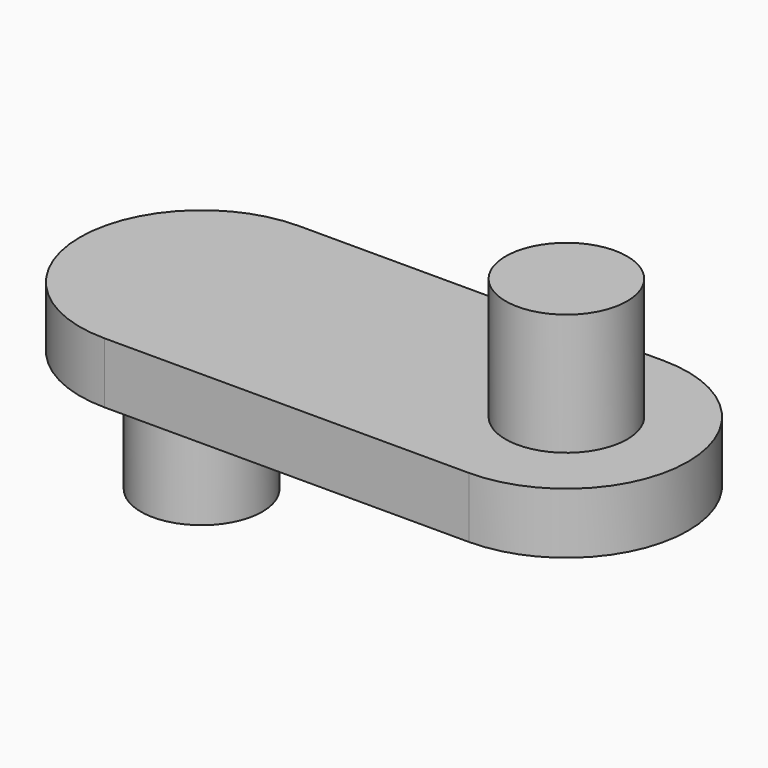
from build123d import *

# Parameters (mm, degrees)
F1_DEPTH = 5
F2_R     = 5
F3_DEPTH = 10
F4_R     = 5
F5_DEPTH = 10


with BuildPart() as f1:
    # F0 (on Top) → F1 (new body)
    with BuildSketch(Plane.XY):
        with BuildLine():
            Line((30, 20), (0, 20))
            ThreePointArc((0, 20), (-10, 10), (0, 0))
            Line((0, 0), (30, 0))
            ThreePointArc((30, 0), (40, 10), (30, 20))
        make_face()
    extrude(amount=F1_DEPTH)

    # F2 (on face) → F3 (join)
    with BuildSketch(Plane.XY.offset(5)):
        with Locations((30, 10)):
            Circle(F2_R)
    extrude(amount=F3_DEPTH)

    # F4 (on face) → F5 (join)
    with BuildSketch(Plane(origin=(0, 0, 0), x_dir=(1, 0, 0), z_dir=(0, 0, -1))):
        with Locations((0, -10)):
            Circle(F4_R)
    extrude(amount=F5_DEPTH)


solid = f1.part
